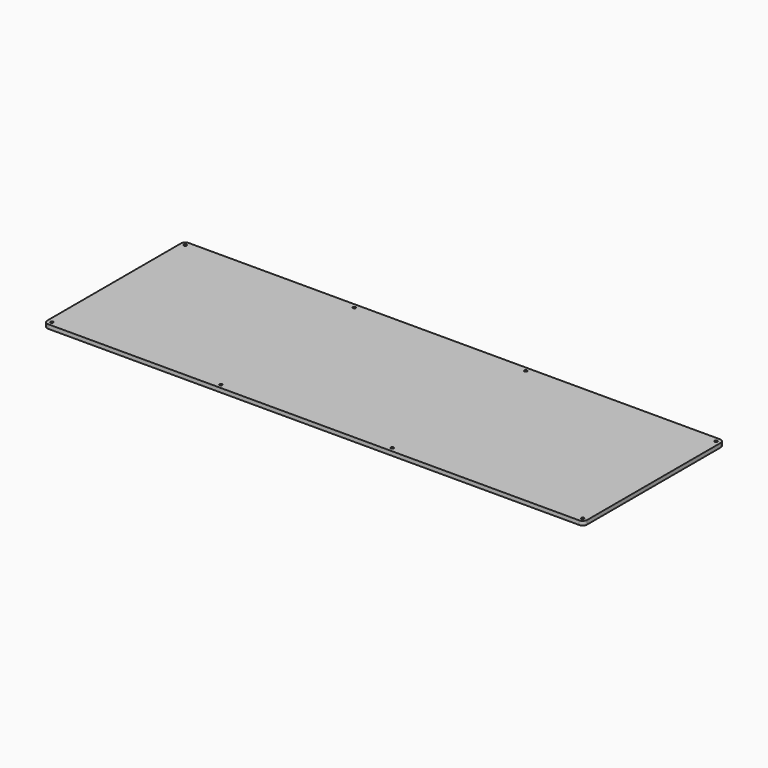
from build123d import *

# Parameters (mm, degrees)
SKETCH_R  = 0.625
PAD_DEPTH = 1.8


with BuildPart() as part:
    # Sketch → Pad (new body)
    with BuildSketch(Plane.XY):
        with BuildLine():
            Line((-119.75, 37), (-119.75, -37))
            ThreePointArc((-119.75, -37), (-119.164214, -38.414214), (-117.75, -39))
            Line((-117.75, -39), (117.75, -39))
            ThreePointArc((117.75, -39), (119.164214, -38.414214), (119.75, -37))
            Line((119.75, -37), (119.75, 37))
            ThreePointArc((119.75, 37), (119.164214, 38.414214), (117.75, 39))
            Line((117.75, 39), (-117.75, 39))
            ThreePointArc((-117.75, 39), (-119.164214, 38.414214), (-119.75, 37))
        make_face()
        with Locations((-117.75, 37)):
            Circle(SKETCH_R, mode=Mode.SUBTRACT)
        with Locations((117.75, 37)):
            Circle(SKETCH_R, mode=Mode.SUBTRACT)
        with Locations((117.75, -37)):
            Circle(SKETCH_R, mode=Mode.SUBTRACT)
        with Locations((-117.75, -37)):
            Circle(SKETCH_R, mode=Mode.SUBTRACT)
        with Locations((33.25, -37)):
            Circle(SKETCH_R, mode=Mode.SUBTRACT)
        with Locations((-42.75, -37)):
            Circle(SKETCH_R, mode=Mode.SUBTRACT)
        with Locations((33.25, 37)):
            Circle(SKETCH_R, mode=Mode.SUBTRACT)
        with Locations((-42.75, 37)):
            Circle(SKETCH_R, mode=Mode.SUBTRACT)
    extrude(amount=PAD_DEPTH)


solid = part.part
